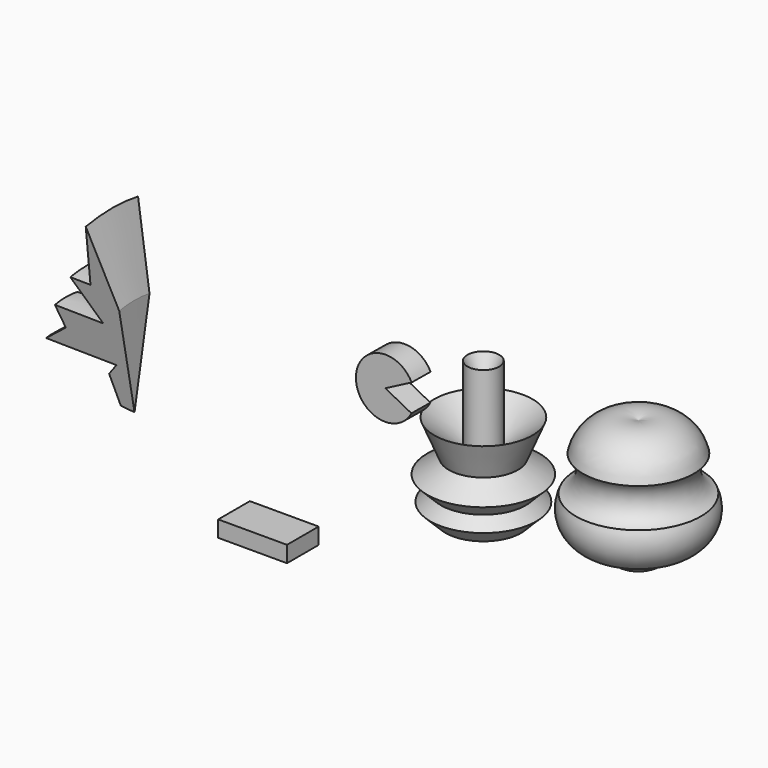
from build123d import *

# Parameters (mm, degrees)
F4_W           = 18.9118981361
F4_H           = 15.2205545455
F5_ANGLE_BACK  = 152.6600030886
F5_ANGLE       = 305.3200061771
F6_W           = 44.1612154245
F6_H           = 10.4200690985
F7_DEPTH       = 25.4
F8_ANGLE       = 89.3945178663
F11_ANGLE_BACK = 11.1018697348
F11_ANGLE      = 22.2037394696


with BuildPart() as f1:
    # F0 (on Front) → F1 (revolve)
    with BuildSketch(Plane.XZ):
        Polygon((-70.226483047, -66.4602592587), (-60.4253523052, -76.2613862753), (-36.1355952919, -76.2613862753), (-36.1355952919, -6.801197771), (-46.3628619909, 13.2272019982), (-46.3628619909, -36.2045913935), (-67.6696747541, -18.733009696), (-58.294672519, -41.3182228804), (-72.144098094, -50.9062896118), (-63.4083053826, -59.6420790028), align=None)
    revolve(axis=Axis((-36.1355952919, 0, -19.7983495891), (0, 0, 1)))


with BuildPart() as f3:
    # F2 (on Front) → F3 (revolve)
    with BuildSketch(Plane.XZ):
        with BuildLine():
            ThreePointArc((23.3213715255, -29.3686557561), (25.9250000029, -50.6353370164), (45.9297560155, -58.3073869348))
            ThreePointArc((45.9297560155, -58.3073869348), (53.2803037936, -67.8845171153), (63.4135752916, -61.3218359649))
            Line((63.4135752916, -61.3218359649), (63.4135752916, 11.9293257594))
            ThreePointArc((63.4135752916, 11.9293257594), (41.2931851429, 10.835252023), (27.8430469334, -6.7602712661))
            ThreePointArc((27.8430469334, -6.7602712661), (31.8127259734, -19.3105664492), (23.3213715255, -29.3686557561))
        make_face()
    revolve(axis=Axis((63.4135752916, 0, -24.6962551028), (0, 0, -1)))


with BuildPart() as f5:
    # F4 (on Front) → F5 (revolve)
    with BuildSketch(Plane.XZ, mode=Mode.PRIVATE) as f5_sk:
        with Locations((-172.9343980551, -67.7158748731)):
            Rectangle(F4_W, F4_H)
    revolve(f5_sk.sketch.rotate(Axis((-163.478448987, 0, -67.7158748731), (0, 0, -1)), -F5_ANGLE_BACK), axis=Axis((-163.478448987, 0, -67.7158748731), (0, 0, -1)), revolution_arc=F5_ANGLE)


with BuildPart() as f7:
    # F6 (on Front) → F7 (new body)
    with BuildSketch(Plane.XZ):
        with Locations((-163.9708653092, -120.1135441661)):
            Rectangle(F6_W, F6_H)
    extrude(amount=F7_DEPTH)


with BuildPart() as f5_1:
    # F8: moved
    add(f5.part.rotate(Axis((-163.9708653092, -25.4, -114.9035096169), (1, 0, 0)), F8_ANGLE))


with BuildPart() as f5_2:
    # F9: moved
    add(f5_1.part.moved(Location((128.35945, 0, 119.41453))))


with BuildPart() as f11:
    # F10 (on Front) → F11 (revolve)
    with BuildSketch(Plane.XZ, mode=Mode.PRIVATE) as f11_sk:
        Polygon((-273.6366987228, -69.6342810988), (-268.8553035259, -87.9629999399), (-260.0893974304, -88.7598991394), (-260.0893974304, -25.4062861204), (-274.4336128235, 22.0093112439), (-277.2227525711, -15.4450265691), (-290.3716266155, -15.4450265691), (-272.4413573742, -37.7582497895), (-303.9189279079, -37.7582497895), (-298.7390756607, -50.1102097332), (-313.4817183018, -62.0637200773), (-267.659932375, -62.0637200773), align=None)
    revolve(f11_sk.sketch.rotate(Axis((-264.4723504782, 0, -88.3614495397), (0.9958932203, 0, -0.0905355934)), -F11_ANGLE_BACK), axis=Axis((-264.4723504782, 0, -88.3614495397), (0.9958932203, 0, -0.0905355934)), revolution_arc=F11_ANGLE)


solid = Compound([f1.part, f3.part, f7.part, f5_2.part, f11.part])
